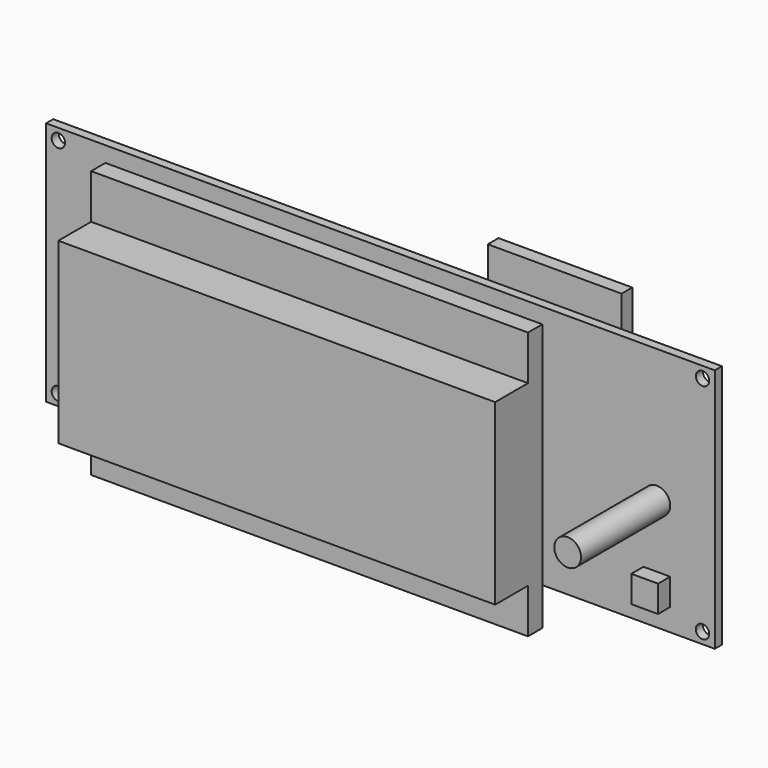
from build123d import *

# Parameters (mm, degrees)
F0_W      = 150
F0_H      = 55
F1_DEPTH  = 2
F2_R      = 1.5
F3_DEPTH  = 2.001
F4_R      = 3
F5_DEPTH  = 25
F6_W      = 6
F6_H      = 6
F7_DEPTH  = 3.4
F8_W      = 98
F8_H      = 60
F9_DEPTH  = 4
F10_W     = 98
F10_H     = 40
F11_DEPTH = 9.2
F12_W     = 30
F12_H     = 37
F13_DEPTH = 3


with BuildPart() as f1:
    # F0 (on Front) → F1 (new body)
    with BuildSketch(Plane.XZ):
        Rectangle(F0_W, F0_H)
    extrude(amount=F1_DEPTH)

    # F2 (on face) → F3 (cut, through all)
    with BuildSketch(Plane.XZ.offset(2)):
        with Locations((-72.25, 25)):
            Circle(F2_R)
        with Locations((-72.25, -25)):
            Circle(F2_R)
        with Locations((72.25, 25)):
            Circle(F2_R)
        with Locations((72.25, -25)):
            Circle(F2_R)
    extrude(amount=-F3_DEPTH, mode=Mode.SUBTRACT)

    # F4 (on face) → F5 (join)
    with BuildSketch(Plane.XZ.offset(2)):
        with Locations((62, -2.5)):
            Circle(F4_R)
    extrude(amount=F5_DEPTH)

    # F6 (on face) → F7 (join)
    with BuildSketch(Plane.XZ.offset(2)):
        with Locations((62, -19.5)):
            Rectangle(F6_W, F6_H)
    extrude(amount=F7_DEPTH)

    # F8 (on face) → F9 (join)
    with BuildSketch(Plane.XZ.offset(2)):
        with Locations((-12.7, -6)):
            Rectangle(F8_W, F8_H)
    extrude(amount=F9_DEPTH)

    # F10 (on face) → F11 (join)
    with BuildSketch(Plane.XZ.offset(6)):
        with Locations((-12.7, -6)):
            Rectangle(F10_W, F10_H)
    extrude(amount=F11_DEPTH)

    # F12 (on face) → F13 (join)
    with BuildSketch(Plane(origin=(0, 0, 0), x_dir=(-1, 0, 0), z_dir=(0, 1, 0))):
        with Locations((-37.488226, 16)):
            Rectangle(F12_W, F12_H)
    extrude(amount=F13_DEPTH)


solid = f1.part
